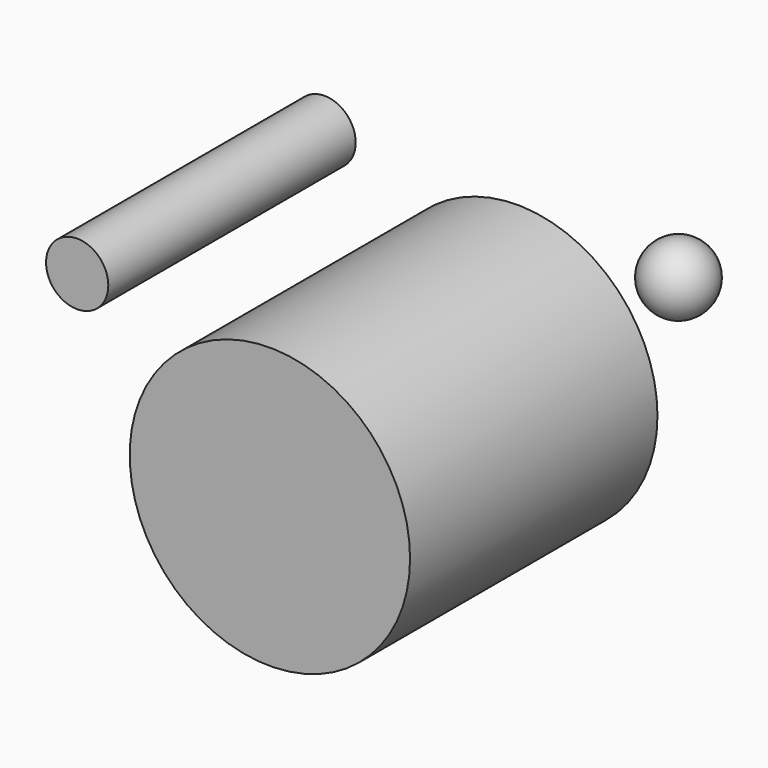
from build123d import *

# Parameters (mm, degrees)
F2_R     = 10.482872
F2_R_2   = 47.195497
F3_DEPTH = 104.1151


with BuildPart() as f1:
    # F0 (on Front) → F1 (revolve)
    with BuildSketch(Plane.XZ):
        with BuildLine():
            Line((54.263636, 31.847387), (54.263636, 54.743521))
            ThreePointArc((54.263636, 54.743521), (42.815569, 43.295454), (54.263636, 31.847387))
        make_face()
    revolve(axis=Axis((54.263636, 0, 43.295454), (0, 0, -1)))


with BuildPart() as f3:
    # F2 (on Front) → F3 (new body)
    with BuildSketch(Plane.XZ):
        with Locations((-64.885452, 47.913637)):
            Circle(F2_R)
        Circle(F2_R_2)
    extrude(amount=F3_DEPTH)


solid = Compound([f1.part, f3.part])
